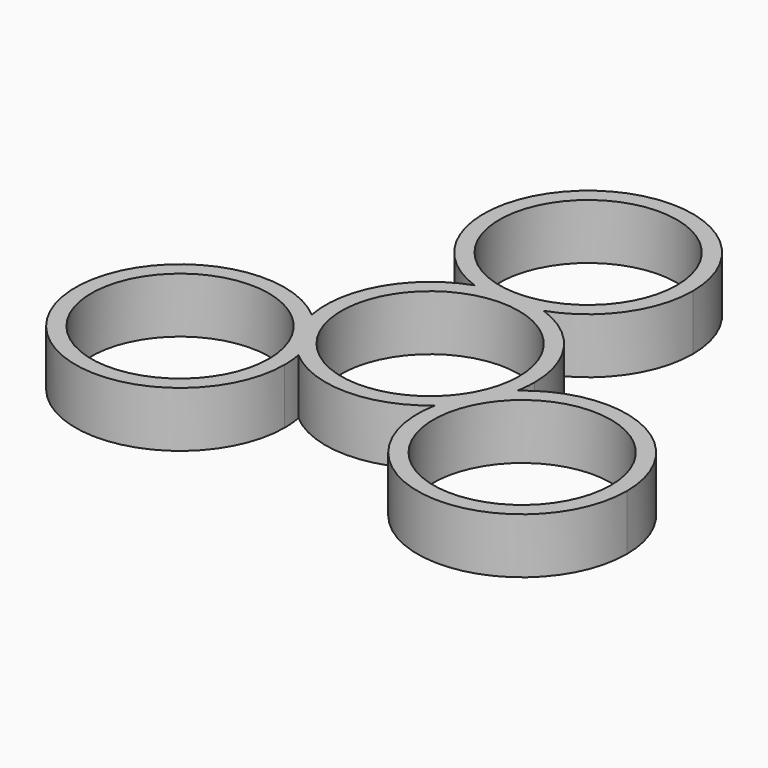
from build123d import *

# Parameters (mm, degrees)
F0_R     = 11.2
F1_DEPTH = 7


with BuildPart() as f1:
    # F0 (on Top) → F1 (new body)
    with BuildSketch(Plane.XY):
        with BuildLine():
            ThreePointArc((12.968803749, -2.4597010632), (13.1420738372, -1.2352713292), (13.2, 0))
            ThreePointArc((13.2, 0), (10.7637341369, 7.6408132702), (4.3542382681, 12.4611640349))
            ThreePointArc((4.3542382681, 12.4611640349), (0, 11.7223280698), (-4.3542382681, 12.4611640349))
            ThreePointArc((-4.3542382681, 12.4611640349), (-11.43153533, 6.6), (-12.968803749, -2.4597010632))
            ThreePointArc((-12.968803749, -2.4597010632), (-10.1518338999, -5.8611640349), (-8.6145654809, -10.0014629717))
            ThreePointArc((-8.6145654809, -10.0014629717), (0, -13.2), (8.6145654809, -10.0014629717))
            ThreePointArc((8.6145654809, -10.0014629717), (10.1518338999, -5.8611640349), (12.968803749, -2.4597010632))
        make_face()
        Circle(F0_R, mode=Mode.SUBTRACT)
        with BuildLine():
            ThreePointArc((-4.3542382681, 12.4611640349), (0, 11.7223280698), (4.3542382681, 12.4611640349))
            ThreePointArc((4.3542382681, 12.4611640349), (0, 13.2), (-4.3542382681, 12.4611640349))
        make_face()
        with BuildLine():
            ThreePointArc((-4.3542382681, 12.4611640349), (0, 13.2), (4.3542382681, 12.4611640349))
            ThreePointArc((4.3542382681, 12.4611640349), (10.7637341369, 17.2815147996), (13.2, 24.9223280698))
            ThreePointArc((13.2, 24.9223280698), (-7.6408132702, 35.6860622067), (-4.3542382681, 12.4611640349))
        make_face()
        with Locations((0, 24.9223280698)):
            Circle(F0_R, mode=Mode.SUBTRACT)
        with BuildLine():
            ThreePointArc((34.7833692299, -12.4611640349), (27.0846297969, -0.4621585689), (12.968803749, -2.4597010632))
            ThreePointArc((12.968803749, -2.4597010632), (11.43153533, -6.6), (8.6145654809, -10.0014629717))
            ThreePointArc((8.6145654809, -10.0014629717), (20.3480979007, -25.6032378721), (34.7833692299, -12.4611640349))
        make_face()
        with Locations((21.5833692299, -12.4611640349)):
            Circle(F0_R, mode=Mode.SUBTRACT)
        with BuildLine():
            ThreePointArc((8.6145654809, -10.0014629717), (11.43153533, -6.6), (12.968803749, -2.4597010632))
            ThreePointArc((12.968803749, -2.4597010632), (10.1518338999, -5.8611640349), (8.6145654809, -10.0014629717))
        make_face()
        with BuildLine():
            ThreePointArc((-8.6145654809, -10.0014629717), (-10.1518338999, -5.8611640349), (-12.968803749, -2.4597010632))
            ThreePointArc((-12.968803749, -2.4597010632), (-11.43153533, -6.6), (-8.6145654809, -10.0014629717))
        make_face()
        with BuildLine():
            ThreePointArc((-8.6145654809, -10.0014629717), (-11.43153533, -6.6), (-12.968803749, -2.4597010632))
            ThreePointArc((-12.968803749, -2.4597010632), (-33.5823746959, -17.9624246019), (-8.3833692299, -12.4611640349))
            ThreePointArc((-8.3833692299, -12.4611640349), (-8.4412953927, -11.2258927057), (-8.6145654809, -10.0014629717))
        make_face()
        with Locations((-21.5833692299, -12.4611640349)):
            Circle(F0_R, mode=Mode.SUBTRACT)
    extrude(amount=F1_DEPTH)


solid = f1.part
